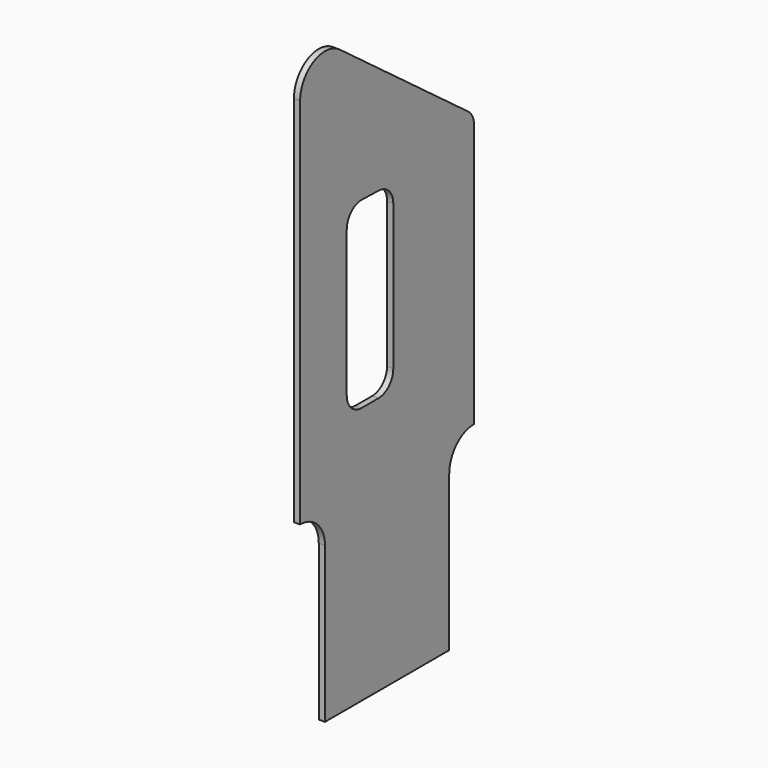
from build123d import *

# Parameters (mm, degrees)
F2_DEPTH = 1
F3_DEPTH = 1


with BuildPart() as f2:
    # F0 (on Right) → F2 (new body)
    with BuildSketch(Plane.YZ):
        with BuildLine():
            Line((-62.160092, -33.826757), (-62.160092, -58.826757))
            Line((-62.160092, -58.826757), (-37.160092, -58.826757))
            Line((-37.160092, -58.826757), (-37.160092, -33.826757))
            ThreePointArc((-37.160092, -33.826757), (-35.695626, -30.291223), (-32.160092, -28.826757))
            Line((-32.160092, -28.826757), (-32.160092, 13.54476))
            ThreePointArc((-32.160092, 13.54476), (-32.478359, 14.889493), (-33.365629, 15.948903))
            Line((-33.365629, 15.948903), (-59.169321, 35.208895))
            ThreePointArc((-59.169321, 35.208895), (-64.401313, 35.671546), (-67.160092, 31.20199))
            Line((-67.160092, 31.20199), (-67.160092, -28.826757))
            ThreePointArc((-67.160092, -28.826757), (-63.624558, -30.291223), (-62.160092, -33.826757))
        make_face()
    extrude(amount=F2_DEPTH)

    # F1 (on Right) → F3 (cut)
    with BuildSketch(Plane.YZ):
        with BuildLine():
            ThreePointArc((-54.700351, 12.145548), (-56.872503, 11.295628), (-57.779271, 9.146586))
            Line((-57.779271, 9.146586), (-57.779271, -14.343553))
            ThreePointArc((-57.779271, -14.343553), (-56.900591, -16.464873), (-54.779271, -17.343553))
            Line((-54.779271, -17.343553), (-51.4154, -17.343553))
            ThreePointArc((-51.4154, -17.343553), (-49.29408, -16.464873), (-48.4154, -14.343553))
            Line((-48.4154, -14.343553), (-48.4154, 9.058063))
            ThreePointArc((-48.4154, 9.058063), (-49.266358, 11.151295), (-51.33648, 12.057024))
            Line((-51.33648, 12.057024), (-54.700351, 12.145548))
        make_face()
    extrude(amount=F3_DEPTH, mode=Mode.SUBTRACT)


solid = f2.part
